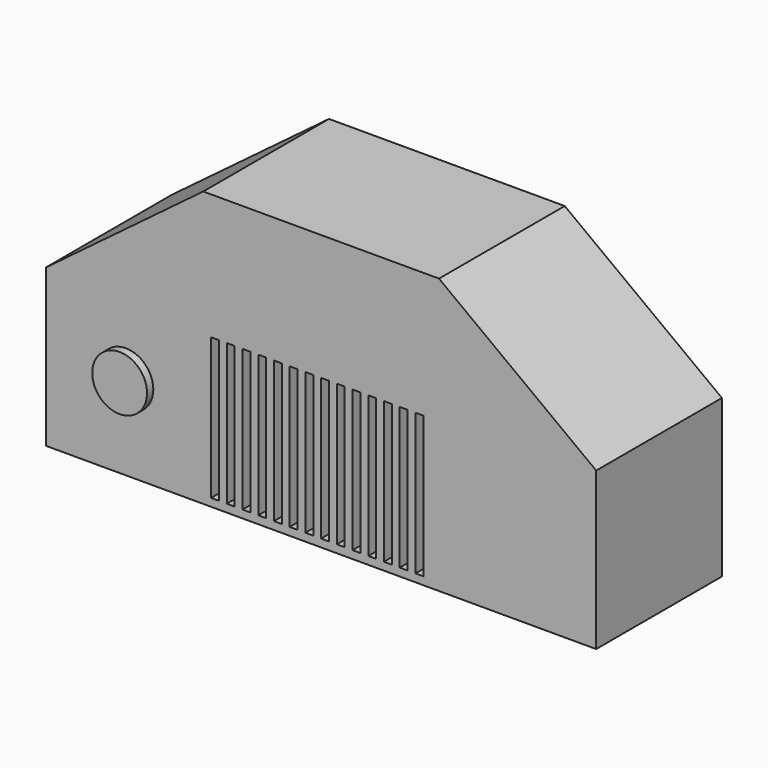
from build123d import *

# Parameters (mm, degrees)
F0_W     = 200
F0_H     = 200
F0_W_2   = 300
F0_H_2   = 150
F1_DEPTH = 200
F2_W     = 10
F2_H     = 180
F3_DEPTH = 100
F4_R     = 34.8685713904
F5_DEPTH = 10


with BuildPart() as f1:
    # F0 (on Front) → F1 (new body)
    with BuildSketch(Plane.XZ):
        Polygon((-37.6349433511, 340.9807319556), (-237.6349433511, 190.9807319556), (-37.6349433511, 190.9807319556), align=None)
        with Locations((-137.6349433511, 90.9807319556)):
            Rectangle(F0_W, F0_H)
        with Locations((112.3650566489, 265.9807319556)):
            Rectangle(F0_W_2, F0_H_2)
        with Locations((112.3650566489, 90.9807319556)):
            Rectangle(F0_W_2, F0_H)
        Polygon((262.3650566489, 340.9807319556), (262.3650566489, 190.9807319556), (462.3650566489, 190.9807319556), align=None)
        with Locations((362.3650566489, 90.9807319556)):
            Rectangle(F0_W, F0_H)
    extrude(amount=F1_DEPTH)

    # F2 (on face) → F3 (cut)
    with BuildSketch(Plane.XZ.offset(200)):
        with Locations((-22.6349433511, 90.9807319556)):
            Rectangle(F2_W, F2_H)
        with Locations((-2.6349433511, 90.9807319556)):
            Rectangle(F2_W, F2_H)
        with Locations((17.3650566489, 90.9807319556)):
            Rectangle(F2_W, F2_H)
        with Locations((37.3650566489, 90.9807319556)):
            Rectangle(F2_W, F2_H)
        with Locations((57.3650566489, 90.9807319556)):
            Rectangle(F2_W, F2_H)
        with Locations((77.3650566489, 90.9807319556)):
            Rectangle(F2_W, F2_H)
        with Locations((97.3650566489, 90.9807319556)):
            Rectangle(F2_W, F2_H)
        with Locations((117.3650566489, 90.9807319556)):
            Rectangle(F2_W, F2_H)
        with Locations((137.3650566489, 90.9807319556)):
            Rectangle(F2_W, F2_H)
        with Locations((157.3650566489, 90.9807319556)):
            Rectangle(F2_W, F2_H)
        with Locations((177.3650566489, 90.9807319556)):
            Rectangle(F2_W, F2_H)
        with Locations((197.3650566489, 90.9807319556)):
            Rectangle(F2_W, F2_H)
        with Locations((217.3650566489, 90.9807319556)):
            Rectangle(F2_W, F2_H)
        with Locations((237.3650566489, 90.9807319556)):
            Rectangle(F2_W, F2_H)
    extrude(amount=-F3_DEPTH, mode=Mode.SUBTRACT)

    # F4 (on face) → F5 (join)
    with BuildSketch(Plane.XZ.offset(200)):
        with Locations((-136.0715925694, 98.517626524)):
            Circle(F4_R)
    extrude(amount=F5_DEPTH)


solid = f1.part
